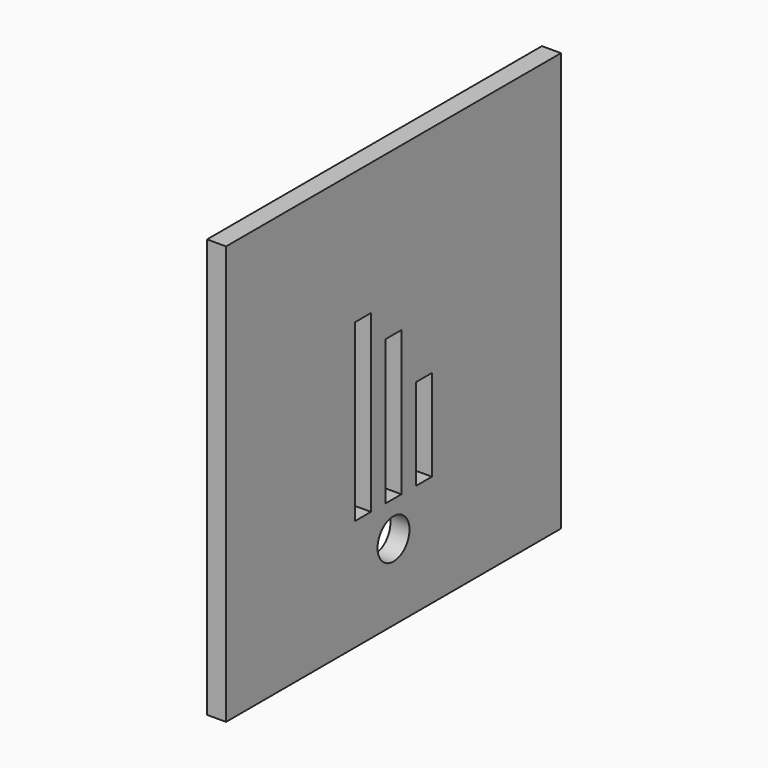
from build123d import *

# Parameters (mm, degrees)
F0_W     = 69.85
F0_H     = 69.85
F0_W_2   = 3.302
F0_H_2   = 29.21
F0_R     = 3.332443
F0_H_3   = 15.24
F0_H_4   = 24.13
F1_DEPTH = 3.175


with BuildPart() as f1:
    # F0 (on Right) → F1 (new body)
    with BuildSketch(Plane.YZ):
        with Locations((34.925, -34.925)):
            Rectangle(F0_W, F0_H)
        with Locations((28.575, -36.672557)):
            Rectangle(F0_W_2, F0_H_2, mode=Mode.SUBTRACT)
        with Locations((34.925, -57.15)):
            Circle(F0_R, mode=Mode.SUBTRACT)
        with Locations((41.275, -43.657557)):
            Rectangle(F0_W_2, F0_H_3, mode=Mode.SUBTRACT)
        with Locations((34.925, -39.212557)):
            Rectangle(F0_W_2, F0_H_4, mode=Mode.SUBTRACT)
    extrude(amount=F1_DEPTH)


solid = f1.part
